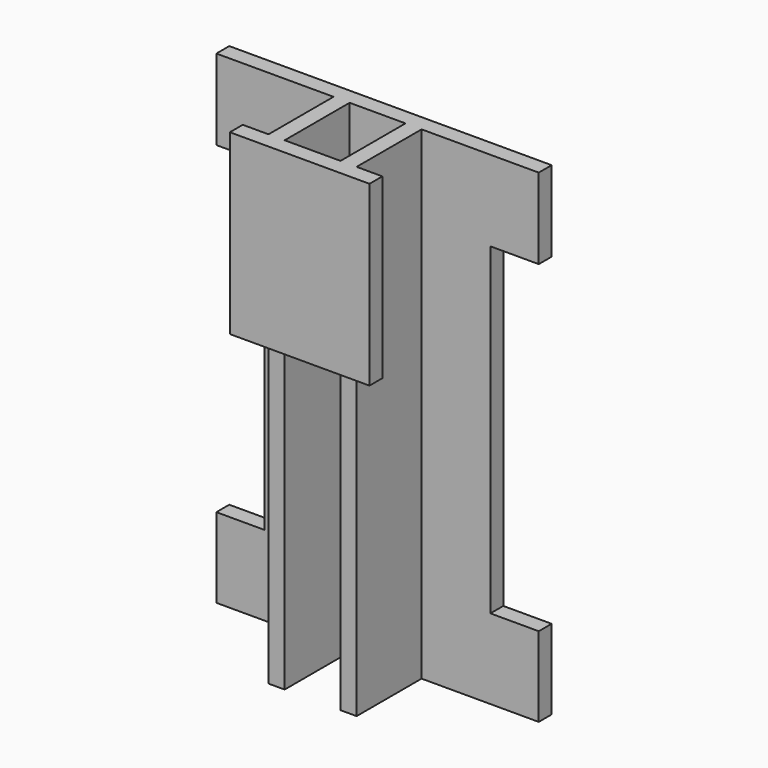
from build123d import *

# Parameters (mm, degrees)
F0_W     = 6.35
F0_H     = 190.5
F1_DEPTH = 38.35
F0_W_2   = 22
F0_R     = 5
F2_DEPTH = 6.35
F3_W     = 55
F3_H     = 70
F4_DEPTH = 6.35


with BuildPart() as f1:
    # F0 (on Front) → F1 (new body)
    with BuildSketch(Plane.XZ):
        with Locations((49.325, 95.25)):
            Rectangle(F0_W, F0_H)
        with Locations((77.675, 95.25)):
            Rectangle(F0_W, F0_H)
    extrude(amount=F1_DEPTH)

    # F0 (on Front) → F2 (join)
    with BuildSketch(Plane.XZ):
        Polygon((0, 25.1), (0, 0), (46.15, 0), (46.15, 190.5), (0, 190.5), (0, 158.75), (19.05, 158.75), (19.05, 31.45), (0, 31.45), align=None)
        with Locations((49.325, 95.25)):
            Rectangle(F0_W, F0_H)
        with Locations((63.5, 95.25)):
            Rectangle(F0_W_2, F0_H)
        with Locations((63.5, 20)):
            Circle(F0_R, mode=Mode.SUBTRACT)
        with Locations((77.675, 95.25)):
            Rectangle(F0_W, F0_H)
        Polygon((80.85, 190.5), (80.85, 0), (127, 0), (127, 31.45), (107.95, 31.45), (107.95, 158.75), (127, 158.75), (127, 190.5), align=None)
    extrude(amount=F2_DEPTH)

    # F3 (on face) → F4 (join)
    with BuildSketch(Plane.XZ.offset(38.35)):
        with Locations((63.5, 155.5)):
            Rectangle(F3_W, F3_H)
    extrude(amount=F4_DEPTH)


solid = f1.part
